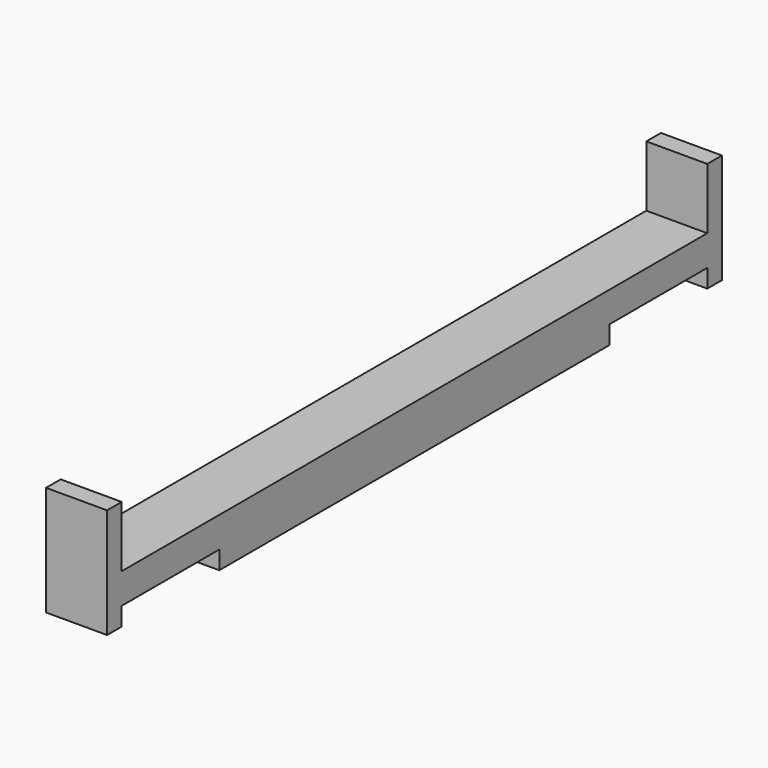
from build123d import *

# Parameters (mm, degrees)
PAD_DEPTH = 10


with BuildPart() as part:
    # Sketch → Pad (new body)
    with BuildSketch(Plane.YZ):
        Polygon((-63, 0), (-63, 18), (-60, 18), (-60, 8), (60, 8), (60, 18), (63, 18), (63, 0), (60, 0), (60, 3), (40, 3), (40, 0), (0, 0), (-40, 0), (-40, 3), (-60, 3), (-60, 0), align=None)
    extrude(amount=PAD_DEPTH)


solid = part.part
